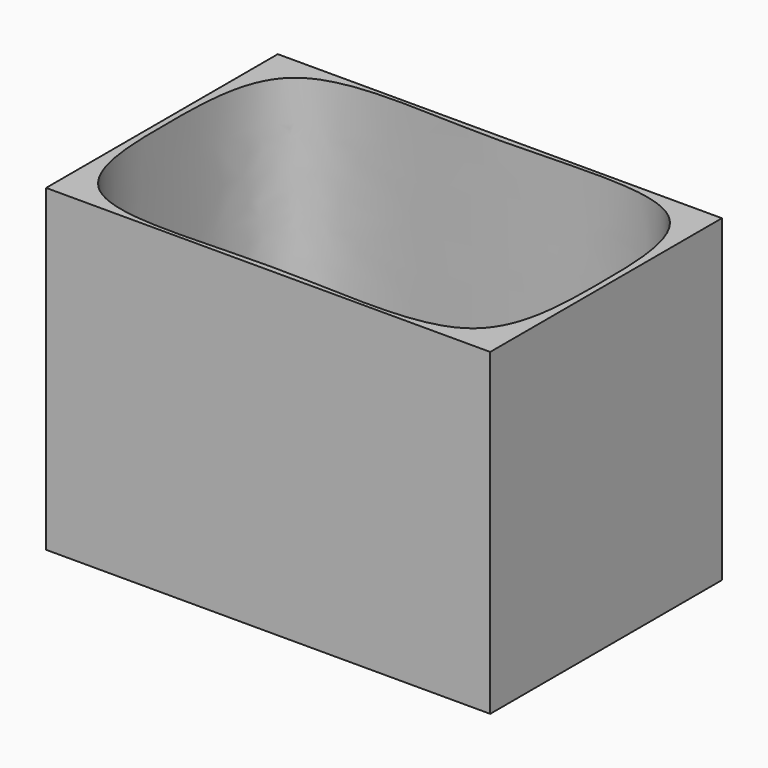
from build123d import *

# Parameters (mm, degrees)
F0_W     = 230
F0_H     = 150
F1_DEPTH = 165


with BuildPart() as f1:
    # F0 (on Top) → F1 (new body)
    with BuildSketch(Plane.XY):
        Rectangle(F0_W, F0_H)
        with BuildLine():
            add(Edge.make_bspline(
                [(-96.7727272727, -63.1126482213), (-78.7385730166, -77.7461197162), (0, -66.2538802838), (110.9174238506, -82.4427638676), (112.4868897741, 0), (110.9174238506, 82.4427638676), (0, 66.2538802838), (-110.9174238506, 82.4427638676), (-112.4868897741, 0), (-111.5131102259, -51.1518448088), (-96.7727272727, -63.1126482213)],
                knots=[0, 0, 0, 0, 0.1375622342, 0.2751244684, 0.3875622342, 0.5, 0.6375622342, 0.7751244684, 0.8875622342, 1, 1, 1, 1], degree=3))
        make_face(mode=Mode.SUBTRACT)
    extrude(amount=F1_DEPTH)


solid = f1.part
